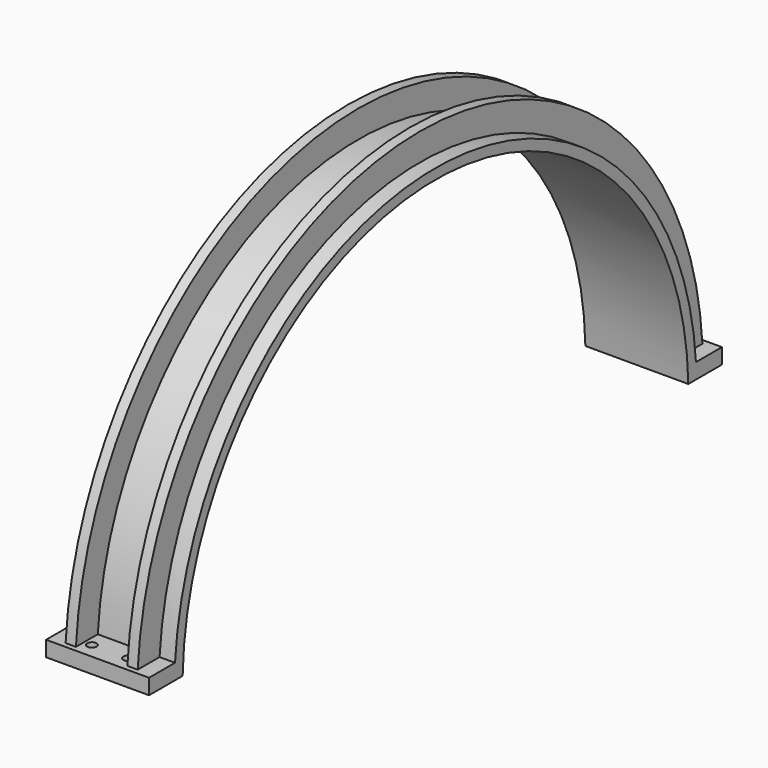
from build123d import *

# Parameters (mm, degrees)
F1_DEPTH  = 100
F4_DEPTH  = 20
F7_DEPTH  = 20
F8_W      = 200
F8_H      = 81.5832222524
F9_DEPTH  = 30
F10_R     = 9
F11_DEPTH = 672.101


with BuildPart() as f1:
    # F0 (on Right) → F1 (new body, symmetric)
    with BuildSketch(Plane.YZ):
        with BuildLine():
            ThreePointArc((-613.9167777476, 15), (0, 614.1), (613.9167777476, 15))
            Line((613.9167777476, 15), (633.9225583618, 15))
            ThreePointArc((633.9225583618, 15), (0, 634.1), (-633.9225583618, 15))
            Line((-633.9225583618, 15), (-613.9167777476, 15))
        make_face()
    extrude(amount=F1_DEPTH, both=True)

    # F3 (on offset) → F4 (join)
    with BuildSketch(Plane.YZ.offset(70)):
        with BuildLine():
            ThreePointArc((-633.9225583618, 15), (0, 634.1), (633.9225583618, 15))
            Line((633.9225583618, 15), (686.9362488616, 15))
            ThreePointArc((686.9362488616, 15), (0, 687.1), (-686.9362488616, 15))
            Line((-686.9362488616, 15), (-633.9225583618, 15))
        make_face()
    extrude(amount=-F4_DEPTH)

    # F6 (on offset) → F7 (join)
    with BuildSketch(Plane(origin=(-70, 0, 0), x_dir=(0, -1, 0), z_dir=(-1, 0, 0))):
        with BuildLine():
            Line((-686.9362488616, 15), (-633.9225583618, 15))
            ThreePointArc((-633.9225583618, 15), (0, 634.1), (633.9225583618, 15))
            Line((633.9225583618, 15), (686.9362488616, 15))
            ThreePointArc((686.9362488616, 15), (0, 687.1), (-686.9362488616, 15))
        make_face()
    extrude(amount=-F7_DEPTH)

    # F8 (on face) → F9 (join)
    with BuildSketch(Plane(origin=(0, 0, 15), x_dir=(1, 0, 0), z_dir=(0, 0, -1))):
        with Locations((0, -654.7083888738)):
            Rectangle(F8_W, F8_H)
        Polygon((-100, 695.5), (-100, 633.9225583618), (-70, 633.9225583618), (-70, 686.9362488616), (-50, 686.9362488616), (-50, 633.9225583618), (50, 633.9225583618), (50, 686.9362488616), (70, 686.9362488616), (70, 633.9225583618), (100, 633.9225583618), (100, 695.5), align=None)
        Polygon((-100, 633.9225583618), (-100, 613.9167777476), (100, 613.9167777476), (100, 633.9225583618), (70, 633.9225583618), (70, 686.9362488616), (50, 686.9362488616), (50, 633.9225583618), (-50, 633.9225583618), (-50, 686.9362488616), (-70, 686.9362488616), (-70, 633.9225583618), align=None)
    extrude(amount=-F9_DEPTH)

    # F10 (on face) → F11 (cut, through all)
    with BuildSketch(Plane(origin=(0, 0, 15), x_dir=(1, 0, 0), z_dir=(0, 0, -1))):
        with Locations((-35, 665.5)):
            Circle(F10_R)
        with Locations((35, 665.5)):
            Circle(F10_R)
        with Locations((-35, -665.5)):
            Circle(F10_R)
        with Locations((35, -665.5)):
            Circle(F10_R)
    extrude(amount=-F11_DEPTH, mode=Mode.SUBTRACT)


solid = f1.part
